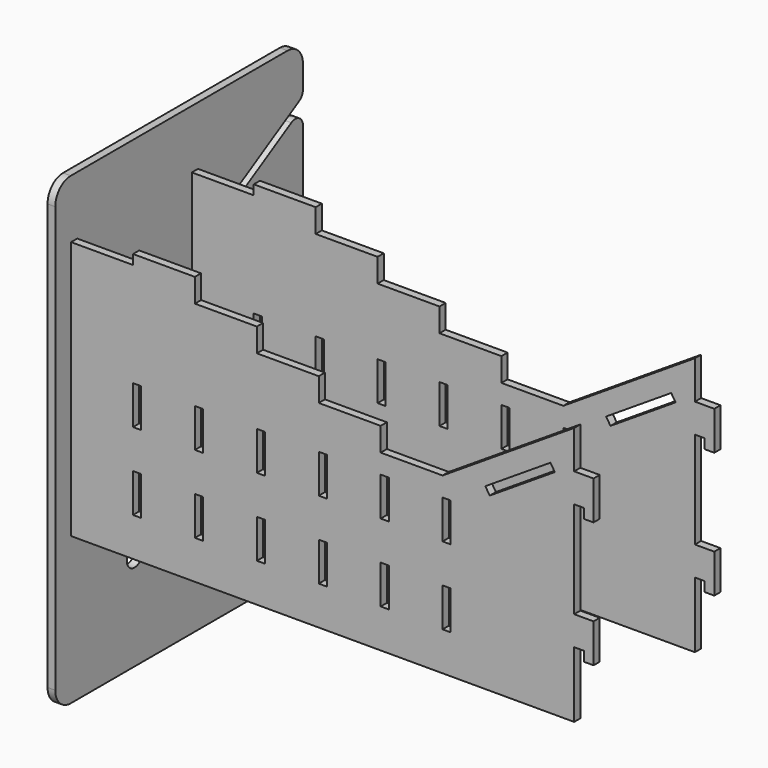
from build123d import *

# Parameters (mm, degrees)
F0_R     = 3.175
F1_DEPTH = 5.08
F2_R     = 6.35
F2_W     = 5.334
F2_H     = 31.75
F3_DEPTH = 5.08
F4_W     = 5.08
F4_H     = 19.05
F4_W_2   = 5.334
F4_H_2   = 25.4
F5_DEPTH = 5.08


with BuildPart() as f1:
    # F0 (on Right) → F1 (new body)
    with BuildSketch(Plane.YZ):
        with BuildLine():
            ThreePointArc((0, -12.7), (8.980256, -8.980256), (12.7, 0))
            ThreePointArc((12.7, 0), (-8.980256, 8.980256), (0, -12.7))
        make_face()
        Circle(F0_R, mode=Mode.SUBTRACT)
        with BuildLine():
            ThreePointArc((0, -12.7), (-8.980256, 8.980256), (12.7, 0))
            add(Edge.make_bspline(
                [(0, 21.082), (6.990706, 21.082), (12.7, 7.920678), (12.7, 0)],
                knots=[0, 0, 0, 0, 24.611801, 24.611801, 24.611801, 24.611801], degree=3))
            ThreePointArc((0, 21.082), (-14.907225, 14.907225), (-21.082, 0))
            add(Edge.make_bspline(
                [(-21.082, 0), (-21.082, -6.990706), (-7.920678, -12.7), (0, -12.7)],
                knots=[0, 0, 0, 0, 24.611801, 24.611801, 24.611801, 24.611801], degree=3))
        make_face()
    extrude(amount=F1_DEPTH)


with BuildPart() as f3:
    # F2 (on Right) → F3 (new body)
    with BuildSketch(Plane.YZ):
        with BuildLine():
            Line((-190.5, 0), (-12.7, 0))
            ThreePointArc((-12.7, 0), (-3.719744, 3.719744), (0, 12.7))
            Line((0, 12.7), (0, 256.389918))
            ThreePointArc((0, 256.389918), (-3.175, 261.88918), (-9.525, 261.88918))
            Line((-9.525, 261.88918), (-63.704024, 230.608906))
            Line((-63.704024, 230.608906), (-66.371024, 235.228285))
            Line((-66.371024, 235.228285), (-3.175, 271.714526))
            ThreePointArc((-3.175, 271.714526), (-0.850739, 274.038788), (0, 277.213788))
            Line((0, 277.213788), (0, 292.1))
            ThreePointArc((0, 292.1), (-3.719744, 301.080256), (-12.7, 304.8))
            Line((-12.7, 304.8), (-190.5, 304.8))
            ThreePointArc((-190.5, 304.8), (-199.480256, 301.080256), (-203.2, 292.1))
            Line((-203.2, 292.1), (-203.2, 12.7))
            ThreePointArc((-203.2, 12.7), (-199.480256, 3.719744), (-190.5, 0))
        make_face()
        with Locations((-138.176, 63.5)):
            Circle(F2_R, mode=Mode.SUBTRACT)
        with Locations((-187.833, 155.575)):
            Rectangle(F2_W, F2_H, mode=Mode.SUBTRACT)
        with Locations((-187.833, 238.125)):
            Rectangle(F2_W, F2_H, mode=Mode.SUBTRACT)
        with Locations((-88.519, 155.575)):
            Rectangle(F2_W, F2_H, mode=Mode.SUBTRACT)
        with Locations((-88.519, 238.125)):
            Rectangle(F2_W, F2_H, mode=Mode.SUBTRACT)
    extrude(amount=F3_DEPTH)


with BuildPart() as f5:
    # F4 (on face) → F5 (new body)
    with BuildSketch(Plane.XZ.offset(185.166)):
        with Locations((2.54, 231.775)):
            Rectangle(F4_W, F4_H)
        Polygon((0, 222.25), (0, 241.3), (-7.62, 241.3), (-7.62, 215.9), (-1.27, 215.9), (-1.27, 222.25), align=None)
        Polygon((5.08, 254), (5.08, 241.3), (5.08, 222.25), (5.08, 171.45), (5.08, 158.75), (5.08, 139.7), (5.08, 96.52), (335.28, 96.52), (335.28, 139.7), (341.63, 139.7), (341.63, 133.35), (347.98, 133.35), (347.98, 158.75), (335.28, 158.75), (335.28, 222.25), (341.63, 222.25), (341.63, 215.9), (347.98, 215.9), (347.98, 241.3), (335.28, 241.3), (335.28, 266.35772), (248.92, 210.82), (208.28, 210.82), (208.28, 226.29193), (167.64, 226.29193), (167.64, 241.76386), (127, 241.76386), (127, 257.23579), (86.36, 257.23579), (86.36, 272.70772), (45.72, 272.70772), (45.72, 266.35772), (5.08, 266.35772), align=None)
        with Locations((48.387, 134.62)):
            Rectangle(F4_W_2, F4_H_2, mode=Mode.SUBTRACT)
        with Locations((89.027, 134.62)):
            Rectangle(F4_W_2, F4_H_2, mode=Mode.SUBTRACT)
        with Locations((129.667, 134.62)):
            Rectangle(F4_W_2, F4_H_2, mode=Mode.SUBTRACT)
        with Locations((170.307, 134.62)):
            Rectangle(F4_W_2, F4_H_2, mode=Mode.SUBTRACT)
        with Locations((210.947, 134.62)):
            Rectangle(F4_W_2, F4_H_2, mode=Mode.SUBTRACT)
        with Locations((251.587, 134.62)):
            Rectangle(F4_W_2, F4_H_2, mode=Mode.SUBTRACT)
        with Locations((48.387, 185.42)):
            Rectangle(F4_W_2, F4_H_2, mode=Mode.SUBTRACT)
        with Locations((89.027, 185.42)):
            Rectangle(F4_W_2, F4_H_2, mode=Mode.SUBTRACT)
        with Locations((129.667, 185.42)):
            Rectangle(F4_W_2, F4_H_2, mode=Mode.SUBTRACT)
        with Locations((170.307, 185.42)):
            Rectangle(F4_W_2, F4_H_2, mode=Mode.SUBTRACT)
        with Locations((210.947, 185.42)):
            Rectangle(F4_W_2, F4_H_2, mode=Mode.SUBTRACT)
        with Locations((251.587, 185.42)):
            Rectangle(F4_W_2, F4_H_2, mode=Mode.SUBTRACT)
        Polygon((279.852765, 209.271425), (276.967608, 213.757785), (319.694843, 241.235474), (322.58, 236.749114), align=None, mode=Mode.SUBTRACT)
        with Locations((2.54, 149.225)):
            Rectangle(F4_W, F4_H)
        Polygon((0, 139.7), (0, 158.75), (-7.62, 158.75), (-7.62, 133.35), (-1.27, 133.35), (-1.27, 139.7), align=None)
    extrude(amount=F5_DEPTH)


with BuildPart() as f6_1:
    # F6: copy of F5
    add(f5.part.moved(Location((0, 99.06, 0))))


solid = Compound([f1.part, f3.part, f5.part, f6_1.part])
